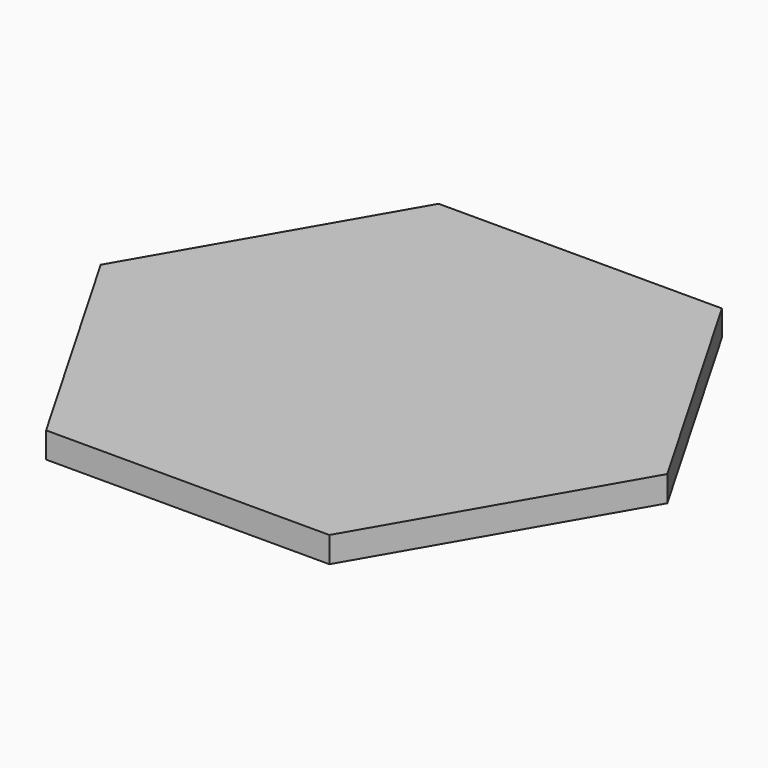
from build123d import *

# Parameters (mm, degrees)
F1_DEPTH = 6.35
F2_D     = 6.35
F2_DEPTH = 4.318
F2_TIP   = 1.9077324654


with BuildPart() as f1:
    # F0 (on Top) → F1 (new body)
    with BuildSketch(Plane.XY):
        Polygon((38.1, 65.9911357684), (-31.75, 65.9911357684), (-66.675, 5.499261314), (-31.75, -54.9926131403), (38.1, -54.9926131403), (73.025, 5.499261314), align=None)
    extrude(amount=F1_DEPTH)

    # F2
    with Locations(Plane(origin=(0, 0, 0), x_dir=(1, 0, 0), z_dir=(0, 0, -1))):
        with Locations((-27.2335491394, -58.3338665669), (-27.2335491394, 47.3353439388), (64.135, -5.499261314)):
            Hole(F2_D / 2, depth=F2_DEPTH)
            with Locations((0, 0, -(F2_DEPTH + F2_TIP / 2))):  # 118° drill point
                Cone(0, F2_D / 2, F2_TIP, mode=Mode.SUBTRACT)


solid = f1.part
